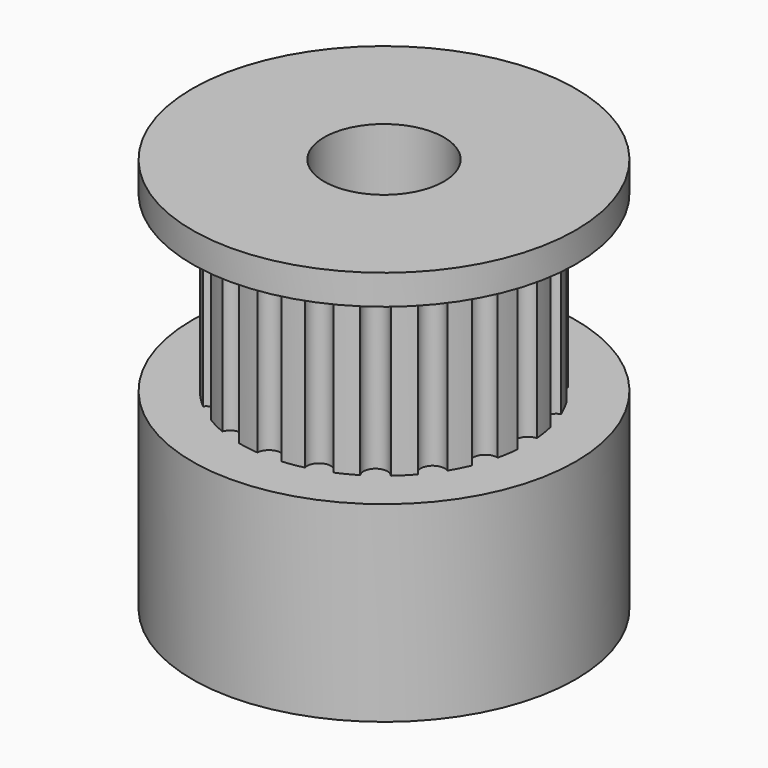
from build123d import *

# Parameters (mm, degrees)
SKETCH025_R              = 8
PAD014_DEPTH             = 8
SKETCH026_R              = 6
PAD015_DEPTH             = 7.25
SKETCH027_R              = 0.5
POCKET008_DEPTH          = 7.25
POLARPATTERN_COUNT       = 20
SKETCH028_R              = 8
PAD016_DEPTH             = 1.25
SKETCH029_R              = 2.5
POCKET009_DEPTH          = 16.5
CLONE005_PLACEMENT_ANGLE = 180


with BuildPart() as part:
    # Sketch025 → Pad014 (new body)
    with BuildSketch(Plane(origin=(20, -80, 0), x_dir=(1, 0, 0), z_dir=(0, 0, -1))):
        Circle(SKETCH025_R)
    extrude(amount=PAD014_DEPTH)

    # Sketch026 → Pad015 (new body)
    with BuildSketch(Plane(origin=(20, -80, -8), x_dir=(1, 0, 0), z_dir=(0, 0, -1))):
        Circle(SKETCH026_R)
    extrude(amount=PAD015_DEPTH)

    # Sketch027 → Pocket008 (cut)
    with BuildSketch(Plane(origin=(20, -80, -15.25), x_dir=(1, 0, 0), z_dir=(0, 0, -1))):
        with Locations((6, 0)):
            Circle(SKETCH027_R)
    pocket008 = extrude(amount=-POCKET008_DEPTH, mode=Mode.SUBTRACT)

    # PolarPattern: Pocket008 ×20 about axis
    polarpattern_axis = Axis((20, -80, -15.25), (0, 0, -1))
    for i in range(1, POLARPATTERN_COUNT):
        add(pocket008.rotate(polarpattern_axis, i * 360 / POLARPATTERN_COUNT), mode=Mode.SUBTRACT)

    # Sketch028 → Pad016 (new body)
    with BuildSketch(Plane(origin=(20, -80, -15.25), x_dir=(1, 0, 0), z_dir=(0, 0, -1))):
        Circle(SKETCH028_R)
    extrude(amount=PAD016_DEPTH)

    # Sketch029 → Pocket009 (cut)
    with BuildSketch(Plane(origin=(20, -80, -16.5), x_dir=(1, 0, 0), z_dir=(0, 0, -1))):
        Circle(SKETCH029_R)
    extrude(amount=-POCKET009_DEPTH, mode=Mode.SUBTRACT)


with BuildPart() as part_1:
    # Clone005 placement: moved
    add(part.part.moved(Location((-6, -192, -13))).rotate(Axis((-6, -192, -13), (-1, 0, 0)), CLONE005_PLACEMENT_ANGLE))


solid = part_1.part
